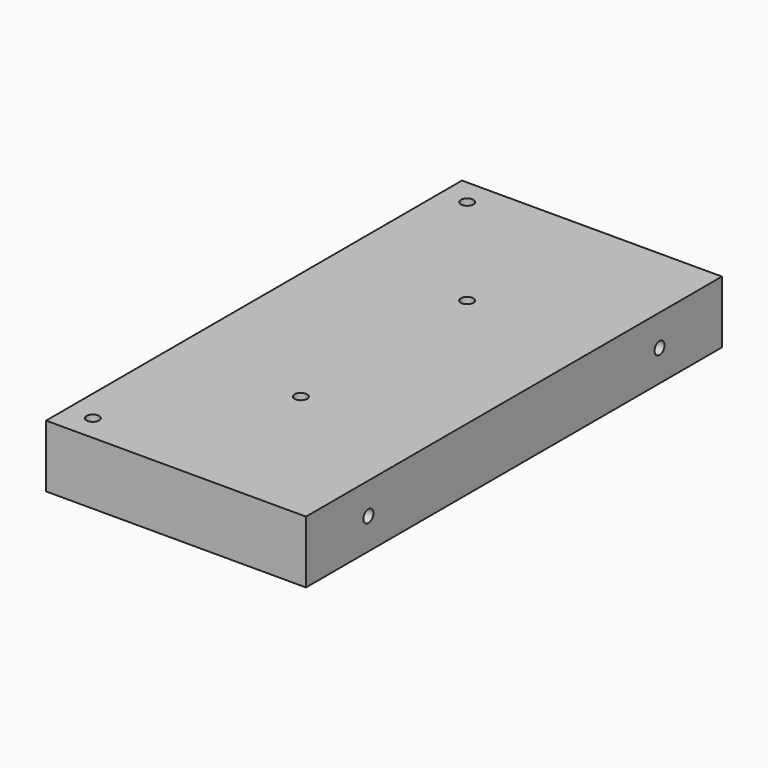
from build123d import *

# Parameters (mm, degrees)
F0_W     = 50
F0_H     = 100
F1_DEPTH = 12
F3_D     = 2.4
F3_DEPTH = 6
F3_TIP   = 0.7210327428
F5_D     = 2.4
F5_DEPTH = 6
F5_TIP   = 0.7210327428
F7_D     = 2.4
F7_DEPTH = 6
F7_TIP   = 0.7210327428
F9_D     = 2.4
F9_DEPTH = 6
F9_TIP   = 0.7210327428


with BuildPart() as f1:
    # F0 (on Top) → F1 (new body)
    with BuildSketch(Plane.XY):
        Rectangle(F0_W, F0_H)
    extrude(amount=F1_DEPTH)

    # F3
    with Locations(Plane.XY.offset(12)):
        with Locations((0, 20), (0, -20)):
            Hole(F3_D / 2, depth=F3_DEPTH)
            with Locations((0, 0, -(F3_DEPTH + F3_TIP / 2))):  # 118° drill point
                Cone(0, F3_D / 2, F3_TIP, mode=Mode.SUBTRACT)

    # F5
    with Locations(Plane.YZ.offset(25)):
        with Locations((-35, 6), (35, 6)):
            Hole(F5_D / 2, depth=F5_DEPTH)
            with Locations((0, 0, -(F5_DEPTH + F5_TIP / 2))):  # 118° drill point
                Cone(0, F5_D / 2, F5_TIP, mode=Mode.SUBTRACT)

    # F7
    with Locations(Plane(origin=(-25, 0, 0), x_dir=(0, -1, 0), z_dir=(-1, 0, 0))):
        with Locations((-35, 6), (35, 6)):
            Hole(F7_D / 2, depth=F7_DEPTH)
            with Locations((0, 0, -(F7_DEPTH + F7_TIP / 2))):  # 118° drill point
                Cone(0, F7_D / 2, F7_TIP, mode=Mode.SUBTRACT)

    # F9
    with Locations(Plane.XY.offset(12)):
        with Locations((-20, -45), (-20, 45)):
            Hole(F9_D / 2, depth=F9_DEPTH)
            with Locations((0, 0, -(F9_DEPTH + F9_TIP / 2))):  # 118° drill point
                Cone(0, F9_D / 2, F9_TIP, mode=Mode.SUBTRACT)


solid = f1.part
